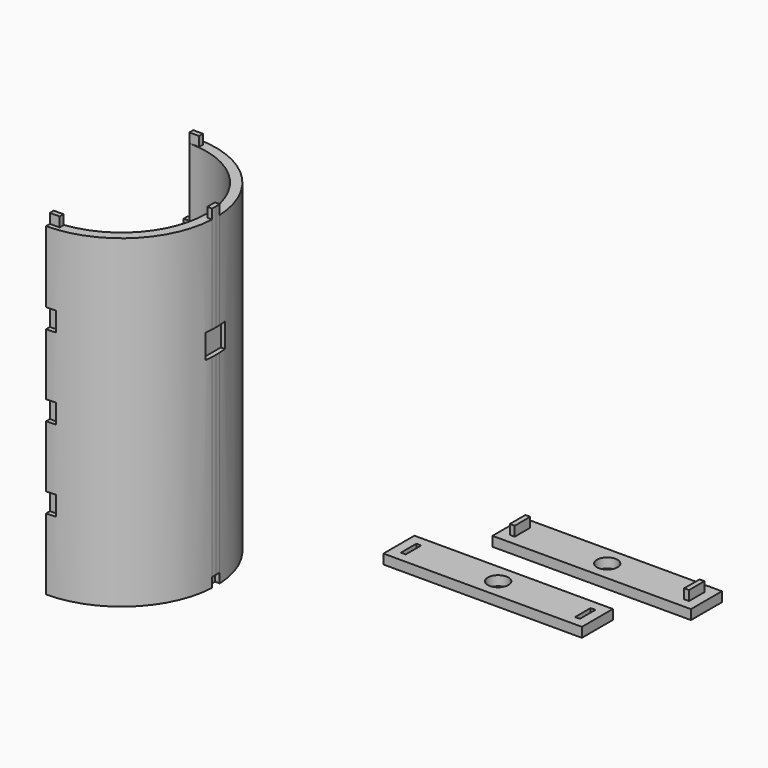
from build123d import *

# Parameters (mm, degrees)
F0_W      = 4
F0_H      = 2
F1_DEPTH  = 134
F2_DEPTH  = 138
F3_DEPTH  = 4
F4_DEPTH  = 4
F5_W      = 2
F5_H      = 8
F6_DEPTH  = 4
F7_DEPTH  = 4
F9_W      = 10
F9_H      = 10
F10_DEPTH = 2
F11_W     = 82
F11_H     = 16
F11_W_2   = 2
F11_H_2   = 8
F11_R     = 4.25
F12_DEPTH = 4
F13_DEPTH = 4
F14_DEPTH = 8


with BuildPart() as f1:
    # F0 (on Top) → F1 (new body)
    with BuildSketch(Plane.XY):
        with BuildLine():
            ThreePointArc((0, 35), (24.748737, 24.748737), (35, 0))
            ThreePointArc((35, 0), (24.748737, -24.748737), (0, -35))
            Line((0, -35), (4, -35))
            Line((4, -35), (4, -37))
            Line((4, -37), (0, -37))
            Line((0, -37), (0, -39))
            ThreePointArc((0, -39), (26.860752, -28.275431), (38.948684, -2))
            Line((38.948684, -2), (37, -2))
            Line((37, -2), (37, 2))
            Line((37, 2), (38.948684, 2))
            ThreePointArc((38.948684, 2), (26.860752, 28.275431), (0, 39))
            Line((0, 39), (0, 37))
            Line((0, 37), (4, 37))
            Line((4, 37), (4, 35))
            Line((4, 35), (0, 35))
        make_face()
        with Locations((2, -36)):
            Rectangle(F0_W, F0_H)
        with Locations((2, 36)):
            Rectangle(F0_W, F0_H)
        with BuildLine():
            ThreePointArc((39, 0), (38.987169, 1.000329), (38.948684, 2))
            Line((38.948684, 2), (37, 2))
            Line((37, 2), (37, -2))
            Line((37, -2), (38.948684, -2))
            ThreePointArc((38.948684, -2), (38.987169, -1.000329), (39, 0))
        make_face()
    extrude(amount=F1_DEPTH)

    # F0 (on Top) → F2 (join)
    with BuildSketch(Plane.XY):
        with Locations((2, -36)):
            Rectangle(F0_W, F0_H)
        with BuildLine():
            ThreePointArc((39, 0), (38.987169, 1.000329), (38.948684, 2))
            Line((38.948684, 2), (37, 2))
            Line((37, 2), (37, -2))
            Line((37, -2), (38.948684, -2))
            ThreePointArc((38.948684, -2), (38.987169, -1.000329), (39, 0))
        make_face()
        with Locations((2, 36)):
            Rectangle(F0_W, F0_H)
    extrude(amount=F2_DEPTH)

    # F0 (on Top) → F3 (cut)
    with BuildSketch(Plane.XY):
        with Locations((2, -36)):
            Rectangle(F0_W, F0_H)
        with BuildLine():
            ThreePointArc((39, 0), (38.987169, 1.000329), (38.948684, 2))
            Line((38.948684, 2), (37, 2))
            Line((37, 2), (37, -2))
            Line((37, -2), (38.948684, -2))
            ThreePointArc((38.948684, -2), (38.987169, -1.000329), (39, 0))
        make_face()
        with Locations((2, 36)):
            Rectangle(F0_W, F0_H)
    extrude(amount=-F3_DEPTH, mode=Mode.SUBTRACT)

    # F0 (on Top) → F4 (cut)
    with BuildSketch(Plane.XY):
        with Locations((2, -36)):
            Rectangle(F0_W, F0_H)
        with BuildLine():
            ThreePointArc((39, 0), (38.987169, 1.000329), (38.948684, 2))
            Line((38.948684, 2), (37, 2))
            Line((37, 2), (37, -2))
            Line((37, -2), (38.948684, -2))
            ThreePointArc((38.948684, -2), (38.987169, -1.000329), (39, 0))
        make_face()
        with Locations((2, 36)):
            Rectangle(F0_W, F0_H)
    extrude(amount=F4_DEPTH, mode=Mode.SUBTRACT)

    # F5 (on face) → F6 (join)
    with BuildSketch(Plane(origin=(0, 0, 0), x_dir=(0, -1, 0), z_dir=(-1, 0, 0))):
        with Locations((-38, 100.5)):
            Rectangle(F5_W, F5_H)
        with Locations((-38, 67)):
            Rectangle(F5_W, F5_H)
        with Locations((-38, 33.5)):
            Rectangle(F5_W, F5_H)
    extrude(amount=F6_DEPTH)

    # F5 (on face) → F7 (cut)
    with BuildSketch(Plane(origin=(0, 0, 0), x_dir=(0, -1, 0), z_dir=(-1, 0, 0))):
        with Locations((38, 100.5)):
            Rectangle(F5_W, F5_H)
        with Locations((38, 67)):
            Rectangle(F5_W, F5_H)
        with Locations((38, 33.5)):
            Rectangle(F5_W, F5_H)
    extrude(amount=-F7_DEPTH, mode=Mode.SUBTRACT)

    # F9 (on offset) → F10 (cut)
    with BuildSketch(Plane.YZ.offset(39)):
        with Locations((0, 89)):
            Rectangle(F9_W, F9_H)
    extrude(amount=-F10_DEPTH, mode=Mode.SUBTRACT)


with BuildPart() as f12:
    # F11 (on Top) → F12 (new body)
    with BuildSketch(Plane.XY):
        with Locations((112.924552, 53.329299)):
            Rectangle(F11_W, F11_H)
        with Locations((76.924552, 53.329299)):
            Rectangle(F11_W_2, F11_H_2, mode=Mode.SUBTRACT)
        with Locations((112.924552, 53.329299)):
            Circle(F11_R, mode=Mode.SUBTRACT)
        with Locations((148.924552, 53.329299)):
            Rectangle(F11_W_2, F11_H_2, mode=Mode.SUBTRACT)
    extrude(amount=F12_DEPTH)


with BuildPart() as f13:
    # F11 (on Top) → F13 (new body)
    with BuildSketch(Plane.XY):
        with Locations((132.661327, 84.982826)):
            Rectangle(F11_W, F11_H)
        with Locations((96.661327, 84.982826)):
            Rectangle(F11_W_2, F11_H_2, mode=Mode.SUBTRACT)
        with Locations((132.661327, 84.982826)):
            Circle(F11_R, mode=Mode.SUBTRACT)
        with Locations((168.661327, 84.982826)):
            Rectangle(F11_W_2, F11_H_2, mode=Mode.SUBTRACT)
    extrude(amount=F13_DEPTH)

    # F11 (on Top) → F14 (join)
    with BuildSketch(Plane.XY):
        with Locations((168.661327, 84.982826)):
            Rectangle(F11_W_2, F11_H_2)
        with Locations((96.661327, 84.982826)):
            Rectangle(F11_W_2, F11_H_2)
    extrude(amount=F14_DEPTH)


solid = Compound([f1.part, f12.part, f13.part])
